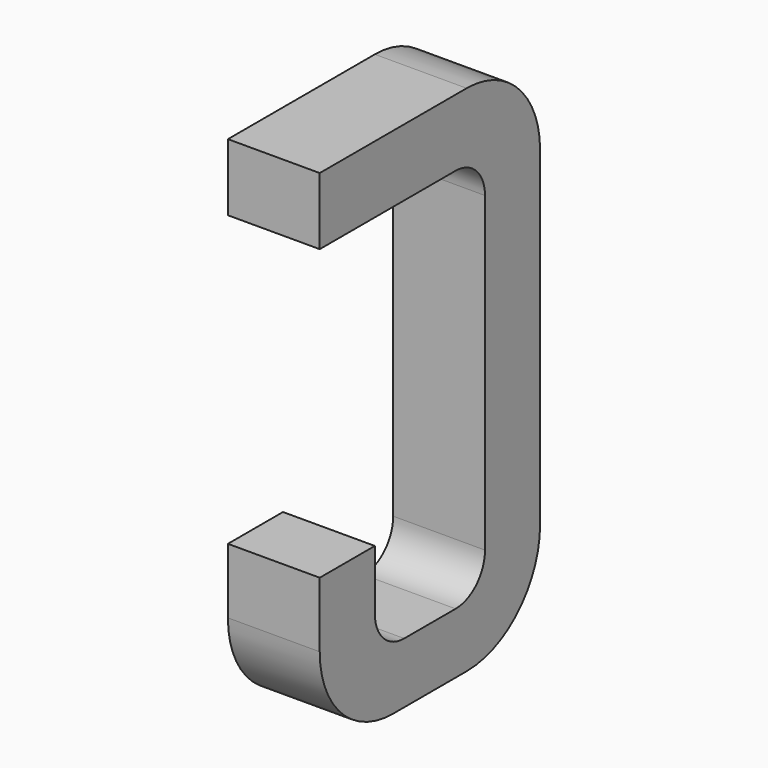
from build123d import *

# Parameters (mm, degrees)
BOX055_W     = 0.5
BOX055_H     = 1.5
BOX055_DEPTH = 2.795
FILLET164_R  = 0.5
FILLET168_R  = 0.5
FILLET160_R  = 0.5
BOX054_W     = 0.75
BOX054_H     = 2.1
BOX054_DEPTH = 1
FILLET155_R  = 0.2
FILLET177_R  = 0.2
FILLET163_R  = 0.2
FILLET154_R  = 0.2
BOX056_W     = 1
BOX056_H     = 1.575
BOX056_DEPTH = 3


with BuildPart() as part:
    # Box055 → Box055 (join)
    with BuildSketch(Plane(origin=(-0.25, 11.125, 0), x_dir=(1, 0, 0), z_dir=(0, 0, 1))):
        with Locations((0.25, 0.75)):
            Rectangle(BOX055_W, BOX055_H)
    extrude(amount=BOX055_DEPTH)

    # Fillet164
    fillet164_edges = [part.edges().sort_by_distance(p)[0] for p in [
        (0, 12.625, 0),
    ]]
    fillet(fillet164_edges, radius=FILLET164_R)

    # Fillet168
    fillet168_edges = [part.edges().sort_by_distance(p)[0] for p in [
        (0, 12.625, 2.795),
    ]]
    fillet(fillet168_edges, radius=FILLET168_R)

    # Fillet160
    fillet160_edges = [part.edges().sort_by_distance(p)[0] for p in [
        (0, 11.125, 0),
    ]]
    fillet(fillet160_edges, radius=FILLET160_R)

    # Box054 → Box054 (cut)
    with BuildSketch(Plane(origin=(-0.5, 11.5, 0.33), x_dir=(0, 1, 0), z_dir=(1, 0, 0))):
        with Locations((0.375, 1.05)):
            Rectangle(BOX054_W, BOX054_H)
    extrude(amount=BOX054_DEPTH, mode=Mode.SUBTRACT)

    # Fillet155
    fillet155_edges = [part.edges().sort_by_distance(p)[0] for p in [
        (0, 11.5, 0.33),
    ]]
    fillet(fillet155_edges, radius=FILLET155_R)

    # Fillet177
    fillet177_edges = [part.edges().sort_by_distance(p)[0] for p in [
        (0, 12.25, 0.33),
    ]]
    fillet(fillet177_edges, radius=FILLET177_R)

    # Fillet163
    fillet163_edges = [part.edges().sort_by_distance(p)[0] for p in [
        (0, 11.5, 2.43),
    ]]
    fillet(fillet163_edges, radius=FILLET163_R)

    # Fillet154
    fillet154_edges = [part.edges().sort_by_distance(p)[0] for p in [
        (0, 12.25, 2.43),
    ]]
    fillet(fillet154_edges, radius=FILLET154_R)

    # Box056 → Box056 (cut)
    with BuildSketch(Plane(origin=(-1, 11, 0.855), x_dir=(0, 1, 0), z_dir=(1, 0, 0))):
        with Locations((0.5, 0.7875)):
            Rectangle(BOX056_W, BOX056_H)
    extrude(amount=BOX056_DEPTH, mode=Mode.SUBTRACT)


with BuildPart() as part_1:
    # Body023 placement: moved
    add(part.part.moved(Location((1.27, 0, 0))))


solid = part_1.part
